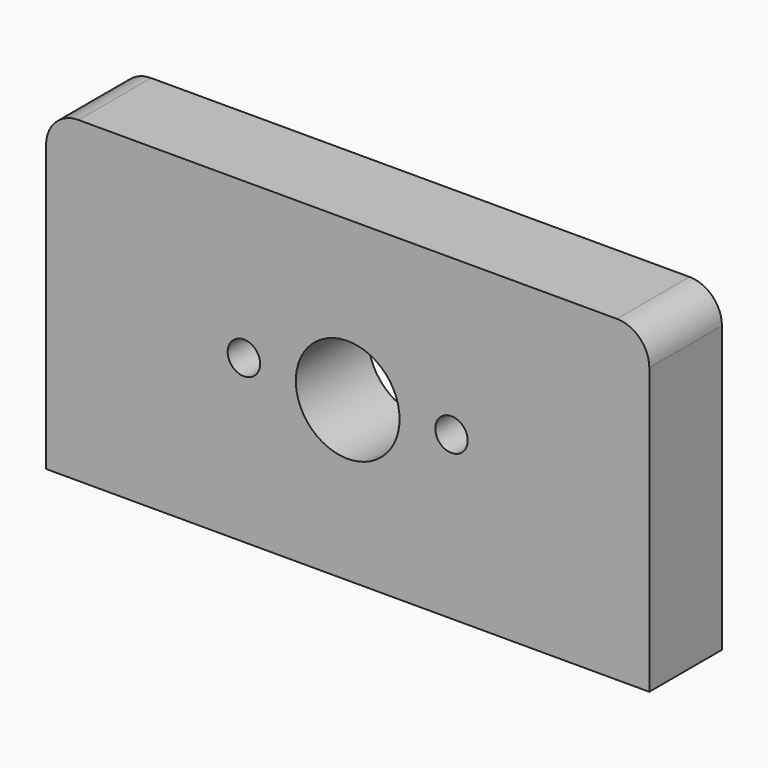
from build123d import *

# Parameters (mm, degrees)
F0_R     = 8
F0_R_2   = 2.5
F1_DEPTH = 14


with BuildPart() as f1:
    # F0 (on Front) → F1 (new body)
    with BuildSketch(Plane.XZ):
        with BuildLine():
            Line((-46.5, -24.5), (46.5, -24.5))
            Line((46.5, -24.5), (46.5, 19.5))
            ThreePointArc((46.5, 19.5), (45.035534, 23.035534), (41.5, 24.5))
            Line((41.5, 24.5), (-41.5, 24.5))
            ThreePointArc((-41.5, 24.5), (-45.035534, 23.035534), (-46.5, 19.5))
            Line((-46.5, 19.5), (-46.5, -24.5))
        make_face()
        Circle(F0_R, mode=Mode.SUBTRACT)
        with Locations((-16, 0.5)):
            Circle(F0_R_2, mode=Mode.SUBTRACT)
        with Locations((16, 0.5)):
            Circle(F0_R_2, mode=Mode.SUBTRACT)
    extrude(amount=F1_DEPTH)


solid = f1.part
